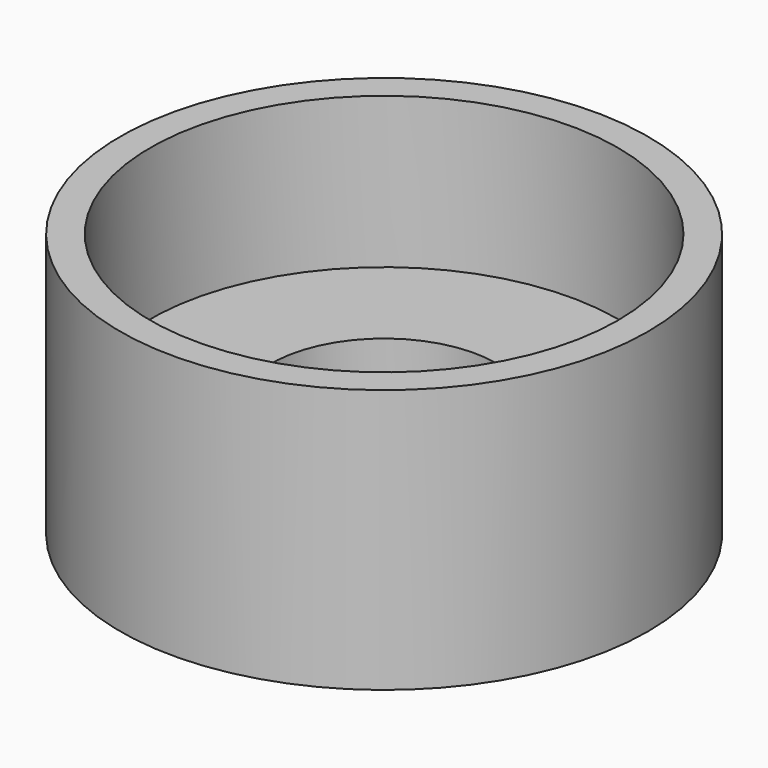
from build123d import *

# Parameters (mm, degrees)
CYLINDER018_R     = 6.2
CYLINDER018_DEPTH = 5
TUBE_R            = 7
TUBE_R_2          = 3
TUBE_DEPTH        = 7


with BuildPart() as cylinder:
    # Cylinder018 → Cylinder018 (new body)
    with BuildSketch(Plane(origin=(40, 0, 3), x_dir=(1, 0, 0), z_dir=(0, 0, 1))):
        Circle(CYLINDER018_R)
    extrude(amount=CYLINDER018_DEPTH)


with BuildPart() as captmp:
    # Tube → Tube (new body)
    with BuildSketch(Plane(origin=(40, 0, 0), x_dir=(1, 0, 0), z_dir=(0, 0, 1))):
        Circle(TUBE_R)
        Circle(TUBE_R_2, mode=Mode.SUBTRACT)
    extrude(amount=TUBE_DEPTH)

    # Cut011: cut Cylinder
    add(cylinder.part, mode=Mode.SUBTRACT)


solid = captmp.part
